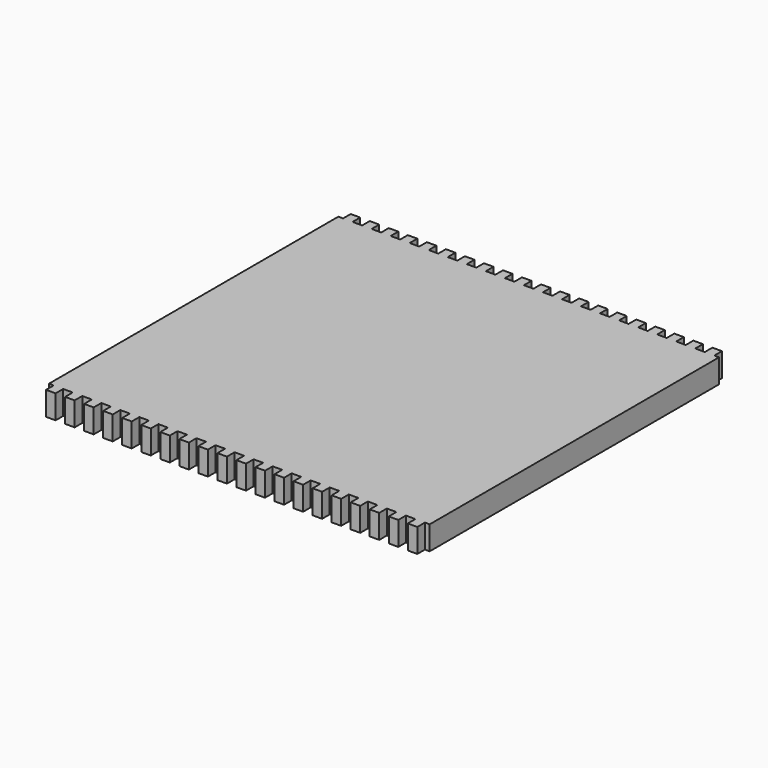
from build123d import *

# Parameters (mm, degrees)
F1_DEPTH = 25


with BuildPart() as f1:
    # F0 (on Top) → F1 (new body)
    with BuildSketch(Plane.XY):
        Polygon((185, -200), (195, -200), (195, -190), (200, -190), (200, 190), (195, 190), (195, 200), (185, 200), (185, 190), (175, 190), (175, 200), (165, 200), (165, 190), (155, 190), (155, 200), (145, 200), (145, 190), (135, 190), (135, 200), (125, 200), (125, 190), (115, 190), (115, 200), (105, 200), (105, 190), (95, 190), (95, 200), (85, 200), (85, 190), (75, 190), (75, 200), (65, 200), (65, 190), (55, 190), (55, 200), (45, 200), (45, 190), (35, 190), (35, 200), (25, 200), (25, 190), (15, 190), (15, 200), (5, 200), (5, 190), (-5, 190), (-5, 200), (-15, 200), (-15, 190), (-25, 190), (-25, 200), (-35, 200), (-35, 190), (-45, 190), (-45, 200), (-55, 200), (-55, 190), (-65, 190), (-65, 200), (-75, 200), (-75, 190), (-85, 190), (-85, 200), (-95, 200), (-95, 190), (-105, 190), (-105, 200), (-115, 200), (-115, 190), (-125, 190), (-125, 200), (-135, 200), (-135, 190), (-145, 190), (-145, 200), (-155, 200), (-155, 190), (-165, 190), (-165, 200), (-175, 200), (-175, 190), (-185, 190), (-185, 200), (-195, 200), (-195, 190), (-200, 190), (-200, -190), (-195, -190), (-195, -200), (-185, -200), (-185, -190), (-175, -190), (-175, -200), (-165, -200), (-165, -190), (-155, -190), (-155, -200), (-145, -200), (-145, -190), (-135, -190), (-135, -200), (-125, -200), (-125, -190), (-115, -190), (-115, -200), (-105, -200), (-105, -190), (-95, -190), (-95, -200), (-85, -200), (-85, -190), (-75, -190), (-75, -200), (-65, -200), (-65, -190), (-55, -190), (-55, -200), (-45, -200), (-45, -190), (-35, -190), (-35, -200), (-25, -200), (-25, -190), (-15, -190), (-15, -200), (-5, -200), (-5, -190), (5, -190), (5, -200), (15, -200), (15, -190), (25, -190), (25, -200), (35, -200), (35, -190), (45, -190), (45, -200), (55, -200), (55, -190), (65, -190), (65, -200), (75, -200), (75, -190), (85, -190), (85, -200), (95, -200), (95, -190), (105, -190), (105, -200), (115, -200), (115, -190), (125, -190), (125, -200), (135, -200), (135, -190), (145, -190), (145, -200), (155, -200), (155, -190), (165, -190), (165, -200), (175, -200), (175, -190), (185, -190), align=None)
    extrude(amount=F1_DEPTH)


solid = f1.part
